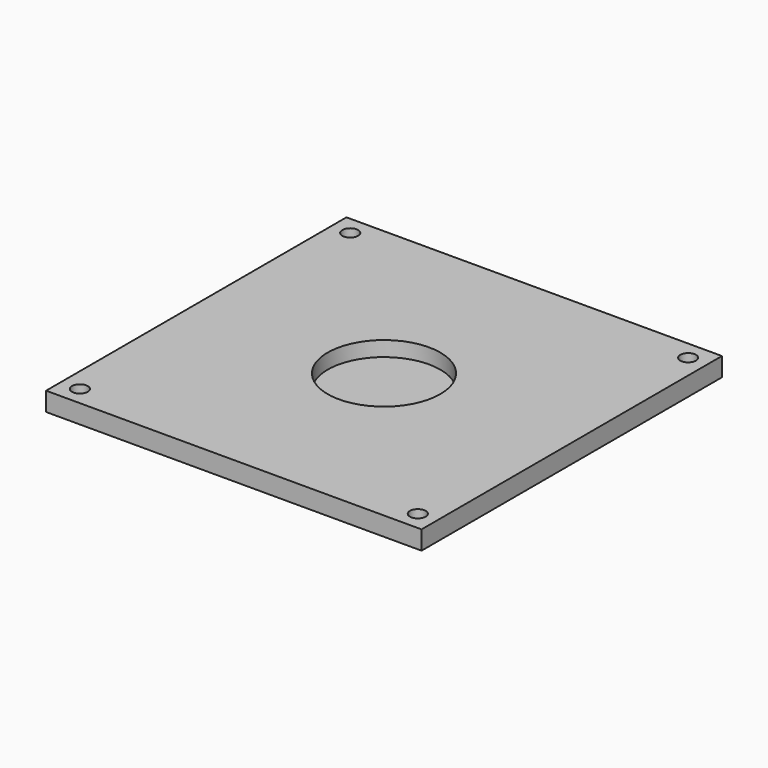
from build123d import *

# Parameters (mm, degrees)
F0_W     = 100
F0_H     = 100
F0_R     = 2.1
F1_DEPTH = 5
F2_R     = 15
F3_DEPTH = 4


with BuildPart() as f1:
    # F0 (on Top) → F1 (new body)
    with BuildSketch(Plane.XY):
        with Locations((3.806381, 10.591754)):
            Rectangle(F0_W, F0_H)
        with Locations((-41.193619, -34.408246)):
            Circle(F0_R, mode=Mode.SUBTRACT)
        with Locations((48.806381, -34.408246)):
            Circle(F0_R, mode=Mode.SUBTRACT)
        with Locations((-41.193619, 55.591754)):
            Circle(F0_R, mode=Mode.SUBTRACT)
        with Locations((48.806381, 55.591754)):
            Circle(F0_R, mode=Mode.SUBTRACT)
    extrude(amount=F1_DEPTH)

    # F2 (on face) → F3 (cut)
    with BuildSketch(Plane.XY.offset(5)):
        with Locations((3.806381, 10.591754)):
            Circle(F2_R)
    extrude(amount=-F3_DEPTH, mode=Mode.SUBTRACT)


solid = f1.part
